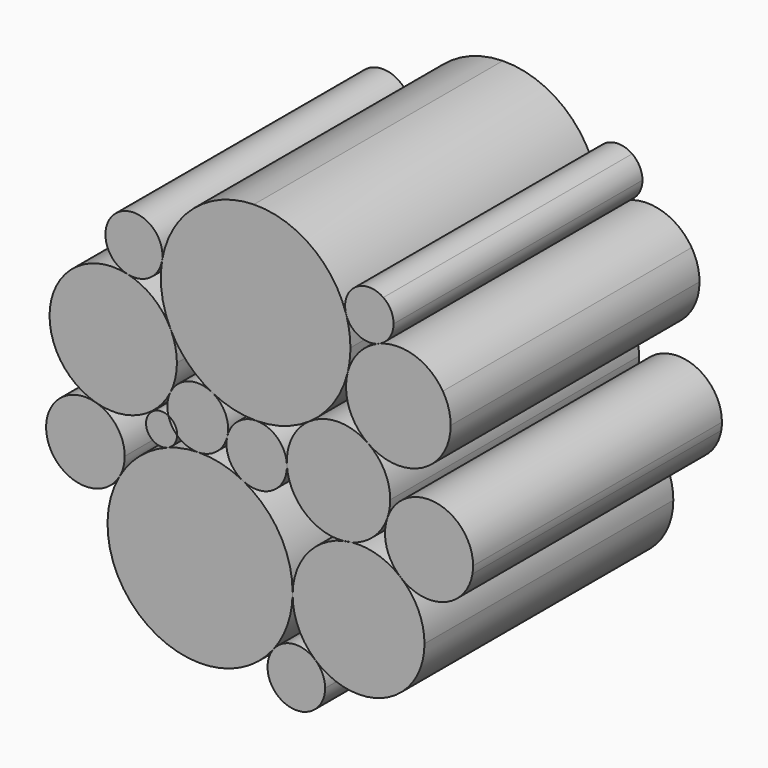
from build123d import *

# Parameters (mm, degrees)
F1_DEPTH = 25


with BuildPart() as f1:
    # F0 (on Front) → F1 (new body)
    with BuildSketch(Plane.XZ):
        with BuildLine():
            ThreePointArc((5.7626735296, 18.2068185772), (5.5440334867, 19.1038326622), (4.9371574202, 19.7996337666))
            ThreePointArc((4.9371574202, 19.7996337666), (2.6676542913, 19.7840860436), (1.950941795, 17.6306679741))
            ThreePointArc((1.950941795, 17.6306679741), (2.9808259559, 16.4440816437), (4.5514713081, 16.4025884885))
            ThreePointArc((4.5514713081, 16.4025884885), (5.4317920066, 17.120280838), (5.7626735296, 18.2068185772))
        make_face()
    extrude(amount=F1_DEPTH)


with BuildPart() as f1b:
    # F0 (on Front) → F1, piece 2 (new body)
    with BuildSketch(Plane.XZ):
        with BuildLine():
            ThreePointArc((-12.8170463238, 16.998939244), (-14.1557782115, 19.0824757789), (-16.6072249698, 18.7307139985))
            ThreePointArc((-16.6072249698, 18.7307139985), (-17.330896065, 16.4465640369), (-15.6223084147, 14.7667518025))
            ThreePointArc((-15.6223084147, 14.7667518025), (-13.8333021611, 15.0954831526), (-12.8478752698, 16.6243852154))
            ThreePointArc((-12.8478752698, 16.6243852154), (-12.8247665698, 16.8110289301), (-12.8170463238, 16.998939244))
        make_face()
    extrude(amount=F1_DEPTH)


with BuildPart() as f1c:
    # F0 (on Front) → F1, piece 3 (new body)
    with BuildSketch(Plane.XZ):
        with BuildLine():
            ThreePointArc((-18.1541618813, 4.8529809017), (-21.2283091664, 4.0593839103), (-22.0623639759, 0.9959658373))
            ThreePointArc((-22.0623639759, 0.9959658373), (-19.4120806995, -1.3252973975), (-16.2598217859, 0.2480837362))
            ThreePointArc((-16.2598217859, 0.2480837362), (-15.9520675559, 1.0020555041), (-15.8471616638, 1.8096326501))
            ThreePointArc((-15.8471616638, 1.8096326501), (-16.489096527, 3.7190971421), (-18.1541618813, 4.8529809017))
        make_face()
    extrude(amount=F1_DEPTH)


with BuildPart() as f1d:
    # F0 (on Front) → F1, piece 4 (new body)
    with BuildSketch(Plane.XZ):
        with BuildLine():
            ThreePointArc((6.3419072898, 0.4434269365), (9.8353686182, -0.1606527791), (12.1001983787, 2.5669341602))
            ThreePointArc((12.1001983787, 2.5669341602), (12.137749391, 2.862587446), (12.1502960439, 3.160351657))
            ThreePointArc((12.1502960439, 3.160351657), (9.195696333, 6.6512974662), (5.2644278529, 4.3143143187))
            ThreePointArc((5.2644278529, 4.3143143187), (5.2006827015, 2.2111661728), (6.3419072898, 0.4434269365))
        make_face()
    extrude(amount=F1_DEPTH)


with BuildPart() as f1e:
    # F0 (on Front) → F1, piece 5 (new body)
    with BuildSketch(Plane.XZ):
        with BuildLine():
            ThreePointArc((-3.8924364768, -7.9568163614), (-4.0168333131, -10.5966982185), (-1.5851739128, -11.6318230194))
            ThreePointArc((-1.5851739128, -11.6318230194), (-0.2614280959, -10.8263222218), (0.2573500675, -9.3661839612))
            ThreePointArc((0.2573500675, -9.3661839612), (0.0494894989, -8.4076097477), (-0.5367526285, -7.6212315266))
            ThreePointArc((-0.5367526285, -7.6212315266), (-2.2871555809, -7.06344923), (-3.8924364768, -7.9568163614))
        make_face()
    extrude(amount=F1_DEPTH)


with BuildPart() as f1f:
    # F0 (on Front) → F1, piece 6 (new body)
    with BuildSketch(Plane.XZ):
        with BuildLine():
            ThreePointArc((10.3500283219, 12.5099443379), (10.1889274826, 13.6628470044), (9.7179665193, 14.7274285231))
            ThreePointArc((9.7179665193, 14.7274285231), (7.4413673069, 16.5107674109), (4.5514713081, 16.4025884885))
            ThreePointArc((4.5514713081, 16.4025884885), (2.964750147, 15.2632497635), (2.0638612521, 13.5299938758))
            ThreePointArc((2.0638612521, 13.5299938758), (2.2028422722, 11.0418321751), (3.7255170757, 9.0690864198))
            ThreePointArc((3.7255170757, 9.0690864198), (8.0828240046, 8.7775304921), (10.3500283219, 12.5099443379))
        make_face()
    extrude(amount=F1_DEPTH)


with BuildPart() as f1g:
    # F0 (on Front) → F1, piece 7 (new body)
    with BuildSketch(Plane.XZ):
        with BuildLine():
            ThreePointArc((-15.6223084147, 14.7667518025), (-19.2057930579, 14.2815966741), (-21.5738585046, 11.548648865))
            ThreePointArc((-21.5738585046, 11.548648865), (-21.3291753608, 7.4525071112), (-18.1541618813, 4.8529809017))
            ThreePointArc((-18.1541618813, 4.8529809017), (-14.6811105069, 5.1092692274), (-12.1762622463, 7.5286709608))
            ThreePointArc((-12.1762622463, 7.5286709608), (-11.7865542561, 8.6245492106), (-11.654375537, 9.7801227662))
            ThreePointArc((-11.654375537, 9.7801227662), (-11.7862422785, 10.9343496046), (-12.1750465309, 12.0290914395))
            ThreePointArc((-12.1750465309, 12.0290914395), (-13.5892621294, 13.7875374163), (-15.6223084147, 14.7667518025))
        make_face()
    extrude(amount=F1_DEPTH)


with BuildPart() as f1h:
    # F0 (on Front) → F1, piece 8 (new body)
    with BuildSketch(Plane.XZ):
        with BuildLine():
            ThreePointArc((-0.5367526285, -7.6212315266), (2.9687895045, -8.9249486788), (6.4623414593, -7.589434247))
            ThreePointArc((6.4623414593, -7.589434247), (7.778744061, -5.7982835776), (8.2448746106, -3.624839573))
            ThreePointArc((8.2448746106, -3.624839573), (7.7456187511, -1.3791728003), (6.3419072898, 0.4434269365))
            ThreePointArc((6.3419072898, 0.4434269365), (4.4781957863, 1.448636567), (2.369716834, 1.6440424949))
            ThreePointArc((2.369716834, 1.6440424949), (2.0445978098, 1.57425377), (1.7149399217, 1.5306817276))
            ThreePointArc((1.7149399217, 1.5306817276), (-1.1895362356, -0.3082543281), (-2.354812058, -3.5424157068))
            ThreePointArc((-2.354812058, -3.5424157068), (-1.8963236613, -5.7826443764), (-0.5367526285, -7.6212315266))
        make_face()
    extrude(amount=F1_DEPTH)


with BuildPart() as f1i:
    # F0 (on Front) → F1, piece 9 (new body)
    with BuildSketch(Plane.XZ):
        with BuildLine():
            ThreePointArc((-16.2598217859, 0.2480837362), (-16.9259083599, -5.5350438662), (-13.2230356777, -10.0269221024))
            ThreePointArc((-13.2230356777, -10.0269221024), (-8.1812796487, -10.688673401), (-3.8924364768, -7.9568163614))
            ThreePointArc((-3.8924364768, -7.9568163614), (-2.7678513646, -5.8735388824), (-2.354812058, -3.5424157068))
            ThreePointArc((-2.354812058, -3.5424157068), (-2.3541374229, -3.4845785693), (-2.35391254, -3.4267379344))
            ThreePointArc((-2.35391254, -3.4267379344), (-3.4341750773, 0.4338489137), (-6.3611992123, 3.1731239408))
            ThreePointArc((-6.3611992123, 3.1731239408), (-8.0956497276, 3.8156683867), (-9.9350130843, 4.0104102597))
            ThreePointArc((-9.9350130843, 4.0104102597), (-11.2073952045, 3.8759581536), (-12.437914197, 3.5254490416))
            ThreePointArc((-12.437914197, 3.5254490416), (-14.6345789592, 2.2199489347), (-16.2598217859, 0.2480837362))
        make_face()
    extrude(amount=F1_DEPTH)


with BuildPart() as f1j:
    # F0 (on Front) → F1, piece 10 (new body)
    with BuildSketch(Plane.XZ):
        with BuildLine():
            ThreePointArc((1.950941795, 17.6306679741), (-0.8618829458, 21.5523171676), (-5.4663772752, 22.9979822013))
            ThreePointArc((-5.4663772752, 22.9979822013), (-10.3101085379, 21.1464950402), (-12.8478752698, 16.6243852154))
            ThreePointArc((-12.8478752698, 16.6243852154), (-12.8700411182, 14.2742361181), (-12.1750465309, 12.0290914395))
            ThreePointArc((-12.1750465309, 12.0290914395), (-10.7866358977, 10.0586829032), (-8.8522924145, 8.620451637))
            ThreePointArc((-8.8522924145, 8.620451637), (-7.1102469071, 7.9683441408), (-5.2621163668, 7.7576779549))
            ThreePointArc((-5.2621163668, 7.7576779549), (-3.0394040602, 8.1096154965), (-1.0163853263, 9.0953665977))
            ThreePointArc((-1.0163853263, 9.0953665977), (0.9296417504, 11.0307436332), (2.0638612521, 13.5299938758))
            ThreePointArc((2.0638612521, 13.5299938758), (2.2342956162, 14.4471685778), (2.2913922532, 15.3782954653))
            ThreePointArc((2.2913922532, 15.3782954653), (2.205798974, 16.5172740026), (1.950941795, 17.6306679741))
        make_face()
    extrude(amount=F1_DEPTH)


with BuildPart() as f1k:
    # F0 (on Front) → F1, piece 11 (new body)
    with BuildSketch(Plane.XZ):
        with BuildLine():
            ThreePointArc((-7.5382384361, 6.453576661), (-7.8924197134, 7.7206683131), (-8.8522924145, 8.620451637))
            ThreePointArc((-8.8522924145, 8.620451637), (-10.7443963127, 8.7751677225), (-12.1762622463, 7.5286709608))
            ThreePointArc((-12.1762622463, 7.5286709608), (-12.4138694439, 6.69139192), (-12.3429593573, 5.8239444391))
            ThreePointArc((-12.3429593573, 5.8239444391), (-11.8242461063, 5.3622212537), (-11.6315631088, 4.6950443663))
            ThreePointArc((-11.6315631088, 4.6950443663), (-11.6317519559, 4.6733046471), (-11.6323184401, 4.6515714894))
            ThreePointArc((-11.6323184401, 4.6515714894), (-10.8453781801, 4.1676235144), (-9.9350130843, 4.0104102597))
            ThreePointArc((-9.9350130843, 4.0104102597), (-8.4481965901, 4.5511698602), (-7.6042618941, 5.8893845148))
            ThreePointArc((-7.6042618941, 5.8893845148), (-7.5548004264, 6.1695555901), (-7.5382384361, 6.453576661))
        make_face()
    extrude(amount=F1_DEPTH)


with BuildPart() as f1l:
    # F0 (on Front) → F1, piece 12 (new body)
    with BuildSketch(Plane.XZ):
        with BuildLine():
            ThreePointArc((-12.3429593573, 5.8239444391), (-14.1333211582, 4.7466983233), (-12.437914197, 3.5254490416))
            ThreePointArc((-12.437914197, 3.5254490416), (-11.8651822142, 3.9669442726), (-11.6323184401, 4.6515714894))
            ThreePointArc((-11.6323184401, 4.6515714894), (-12.071540008, 5.186900802), (-12.3429593573, 5.8239444391))
        make_face()
    extrude(amount=F1_DEPTH)


with BuildPart() as f1m:
    # F0 (on Front) → F1, piece 13 (new body)
    with BuildSketch(Plane.XZ):
        with BuildLine():
            ThreePointArc((-2.8146143964, 5.4541763531), (-3.5757064446, 7.097508605), (-5.2621163668, 7.7576779549))
            ThreePointArc((-5.2621163668, 7.7576779549), (-6.7554986899, 7.2275876196), (-7.6042618941, 5.8893845148))
            ThreePointArc((-7.6042618941, 5.8893845148), (-7.4495736131, 4.3176093399), (-6.3611992123, 3.1731239408))
            ThreePointArc((-6.3611992123, 3.1731239408), (-3.9798403201, 3.2520286783), (-2.8113615874, 5.32850492))
            ThreePointArc((-2.8113615874, 5.32850492), (-2.8121749258, 5.3913616815), (-2.8146143964, 5.4541763531))
        make_face()
    extrude(amount=F1_DEPTH)


with BuildPart() as f1n:
    # F0 (on Front) → F1, piece 14 (new body)
    with BuildSketch(Plane.XZ):
        with BuildLine():
            ThreePointArc((5.4914796786, 5.6691666226), (5.0236576469, 7.5847656504), (3.7255170757, 9.0690864198))
            ThreePointArc((3.7255170757, 9.0690864198), (1.3586820364, 9.8249321819), (-1.0163853263, 9.0953665977))
            ThreePointArc((-1.0163853263, 9.0953665977), (-2.3905466853, 7.5093769069), (-2.8146143964, 5.4541763531))
            ThreePointArc((-2.8146143964, 5.4541763531), (-1.3852899376, 2.5279244985), (1.7149399217, 1.5306817276))
            ThreePointArc((1.7149399217, 1.5306817276), (2.040550028, 1.5976339404), (2.369716834, 1.6440424949))
            ThreePointArc((2.369716834, 1.6440424949), (4.1534585368, 2.6145185951), (5.2644278529, 4.3143143187))
            ThreePointArc((5.2644278529, 4.3143143187), (5.4343236829, 4.9822937637), (5.4914796786, 5.6691666226))
        make_face()
    extrude(amount=F1_DEPTH)


solid = Compound([f1.part, f1b.part, f1c.part, f1d.part, f1e.part, f1f.part, f1g.part, f1h.part, f1i.part, f1j.part, f1k.part, f1l.part, f1m.part, f1n.part])
